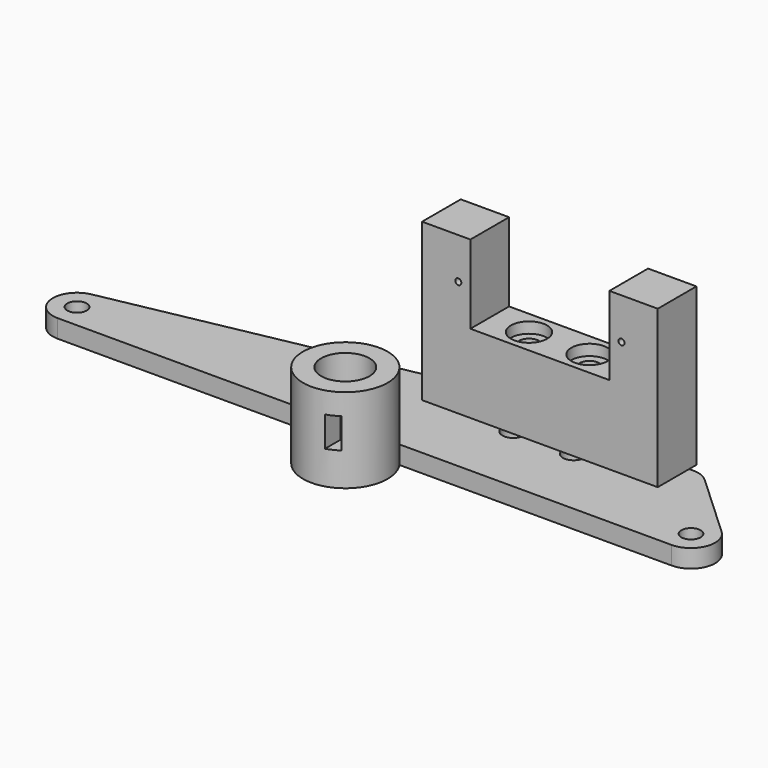
from build123d import *

# Parameters (mm, degrees)
SKETCH_R                = 7
PAD_DEPTH               = 14
SKETCH001_R             = 4
POCKET_DEPTH            = 12
SKETCH002_W             = 2
SKETCH002_H             = 5
POCKET001_DEPTH         = 7.001
POCKET001_DEPTH_BACK    = -7.001
PAD001_DEPTH            = 8
HOLE_D                  = 3.3
HOLE_DEPTH              = 25
HOLE_CBORE_D            = 6
HOLE_CBORE_DEPTH        = 1.8
SKETCH005_R             = 0.5
POCKET002_DEPTH         = 8.001
SKETCH006_R             = 2.5
POCKET003_DEPTH         = 3
BODY001_PITCH_ANGLE     = 90
BODY001_PLACEMENT_ANGLE = -90
SKETCH007_R             = 1.6
SKETCH007_R_2           = 1.8
PAD002_DEPTH            = 3


with BuildPart() as body:
    # Sketch → Pad (new body)
    with BuildSketch(Plane.XY):
        Circle(SKETCH_R)
    extrude(amount=PAD_DEPTH)

    # Sketch001 → Pocket (cut)
    with BuildSketch(Plane.XY.offset(14)):
        Circle(SKETCH001_R)
    extrude(amount=-POCKET_DEPTH, mode=Mode.SUBTRACT)

    # Sketch002 → Pocket001 (cut, two sides)
    with BuildSketch(Plane.XZ) as pocket001_sk:
        with Locations((3, 8)):
            Rectangle(SKETCH002_W, SKETCH002_H)
    extrude(amount=-POCKET001_DEPTH, mode=Mode.SUBTRACT)
    extrude(pocket001_sk.sketch, amount=-POCKET001_DEPTH_BACK, mode=Mode.SUBTRACT)


with BuildPart() as obj1:
    # Sketch003 → Pad001 (new body)
    with BuildSketch(Plane.XY):
        Polygon((0, 19.5), (0, 11.5), (13, 11.5), (13, -11.5), (0, -11.5), (0, -19.5), (26, -19.5), (26, 19.5), align=None)
    extrude(amount=PAD001_DEPTH)

    # Hole
    with Locations(Plane(origin=(13, 0, 0), x_dir=(0, -1, 0), z_dir=(-1, 0, 0))):
        with Locations((-5, 4), (5, 4)):
            CounterBoreHole(HOLE_D / 2, HOLE_CBORE_D / 2, HOLE_CBORE_DEPTH, depth=HOLE_DEPTH)

    # Sketch005 (on Face5 of Hole) → Pocket002 (cut, through all)
    with BuildSketch(Plane.XY.offset(8)):
        with Locations((6.8, 13.5)):
            Circle(SKETCH005_R)
        with Locations((6.8, -13.5)):
            Circle(SKETCH005_R)
    extrude(amount=-POCKET002_DEPTH, mode=Mode.SUBTRACT)

    # Sketch006 (on Face6 of Pocket002) → Pocket003 (cut)
    with BuildSketch(Plane.YZ.offset(26)):
        with Locations((-5, 4)):
            Circle(SKETCH006_R)
        with Locations((5, 4)):
            Circle(SKETCH006_R)
    extrude(amount=-POCKET003_DEPTH, mode=Mode.SUBTRACT)


with BuildPart() as obj1_1:
    # Body001 pitch: moved
    add(obj1.part.rotate(Axis((0, 0, 0), (0, 1, 0)), BODY001_PITCH_ANGLE))


with BuildPart() as obj1_2:
    # Body001 placement: moved
    add(obj1_1.part.moved(Location((21, 22, 30))).rotate(Axis((21, 22, 30), (0, 0, 1)), BODY001_PLACEMENT_ANGLE))


with BuildPart() as attachment:
    # Sketch007 → Pad002 (new body)
    with BuildSketch(Plane.XY):
        with BuildLine():
            Line((-50.800022, 4), (50.8, 4))
            ThreePointArc((50.8, 4), (54.524256, 6.540577), (53.517632, 10.935043))
            Line((53.517632, 10.935043), (42.717632, 20.935043))
            ThreePointArc((42.717632, 20.935043), (41.459423, 21.724256), (40, 22))
            Line((40, 22), (0, 22))
            ThreePointArc((0, 22), (-0.388119, 21.981126), (-0.772575, 21.924682))
            Line((-0.772575, 21.924682), (-51.572575, 11.924682))
            ThreePointArc((-51.572575, 11.924682), (-54.781127, 7.611892), (-50.800022, 4))
        make_face()
        with Locations((-50.8, 8)):
            Circle(SKETCH007_R, mode=Mode.SUBTRACT)
        with Locations((50.8, 8)):
            Circle(SKETCH007_R, mode=Mode.SUBTRACT)
        with Locations((15, 16)):
            Circle(SKETCH007_R_2, mode=Mode.SUBTRACT)
        with Locations((25, 16)):
            Circle(SKETCH007_R_2, mode=Mode.SUBTRACT)
    extrude(amount=PAD002_DEPTH)


solid = Compound([body.part, obj1_2.part, attachment.part])
